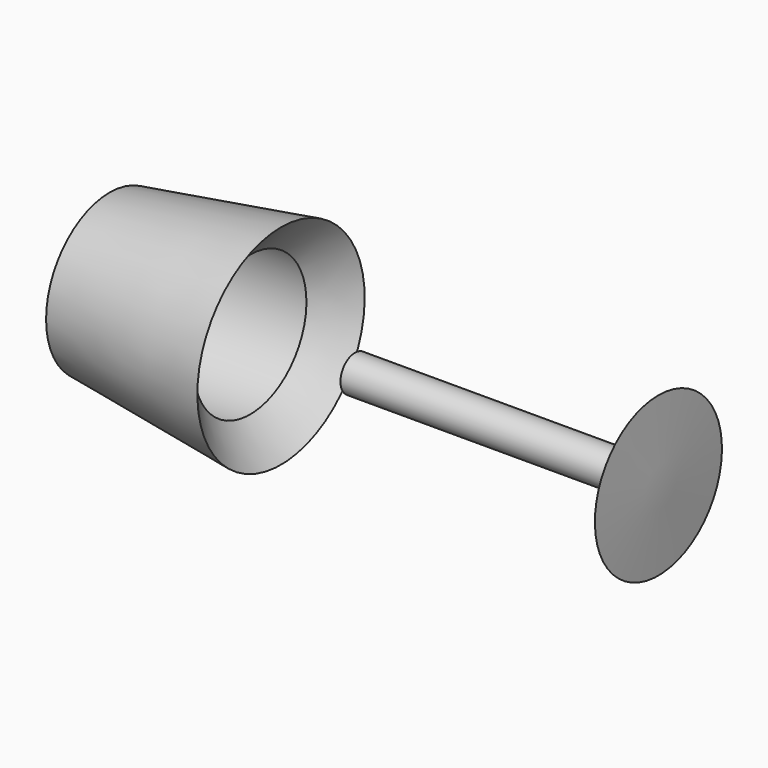
from build123d import *

# Parameters (mm, degrees)
F2_R     = 14.3534811214
F3_DEPTH = 25.4


with BuildPart() as f1:
    # F0 (on Front) → F1 (revolve)
    with BuildSketch(Plane.XZ):
        Polygon((0, 14.3534811214), (0, 0), (13.9271393418, 0), (30.9807788581, 18.9011190087), align=None)
    revolve(axis=Axis((6.9635696709, 0, 0), (-1, 0, 0)))

    # F2 (on face) → F3 (cut)
    with BuildSketch(Plane(origin=(0, 0, 0), x_dir=(0, -1, 0), z_dir=(-1, 0, 0))):
        Circle(F2_R)
    extrude(amount=-F3_DEPTH, mode=Mode.SUBTRACT)


with BuildPart() as f5:
    # F4 (on Front) → F5 (revolve)
    with BuildSketch(Plane.XZ):
        Polygon((44.33946684, 3.2686146442), (44.33946684, 0), (93.5108065605, 0), (99.763803184, 0), (99.1953536868, 14.3534811214), (93.5108065605, 3.2686146442), align=None)
    revolve(axis=Axis((68.9251367003, 0, 0), (1, 0, 0)))


solid = Compound([f1.part, f5.part])
